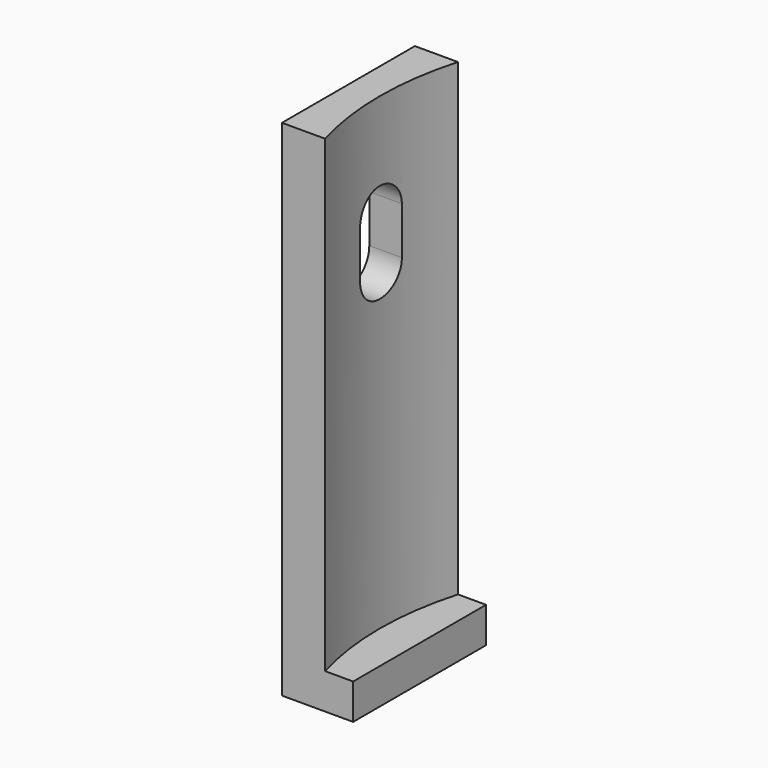
from build123d import *

# Parameters (mm, degrees)
BOX_W             = 6
BOX_H             = 14
BOX_DEPTH         = 42.5
POCKET077_DEPTH   = 28.001
CYLINDER012_R     = 25.35
CYLINDER012_DEPTH = 51.142136


with BuildPart() as part:
    # Box → Box (join)
    with BuildSketch(Plane(origin=(-28, -7, -42.142136), x_dir=(1, 0, 0), z_dir=(0, 0, 1))):
        with Locations((3, 7)):
            Rectangle(BOX_W, BOX_H)
    extrude(amount=BOX_DEPTH)

    # Sketch136 → Pocket077 (cut, through all)
    with BuildSketch(Plane.YZ):
        with BuildLine():
            ThreePointArc((2.2, -8.5), (0, -6.3), (-2.2, -8.5))
            Line((-2.2, -8.5), (-2.2, -12.5))
            ThreePointArc((-2.2, -12.5), (0, -14.7), (2.2, -12.5))
            Line((2.2, -8.5), (2.2, -12.5))
        make_face()
    extrude(amount=-POCKET077_DEPTH, mode=Mode.SUBTRACT)

    # Cylinder012 → Cylinder012 (cut)
    with BuildSketch(Plane.XY.offset(-39.142136)):
        Circle(CYLINDER012_R)
    extrude(amount=CYLINDER012_DEPTH, mode=Mode.SUBTRACT)


with BuildPart() as part_1:
    # Body022028 placement: moved
    add(part.part.moved(Location((-2.5, 0, 848.142136))))


solid = part_1.part
